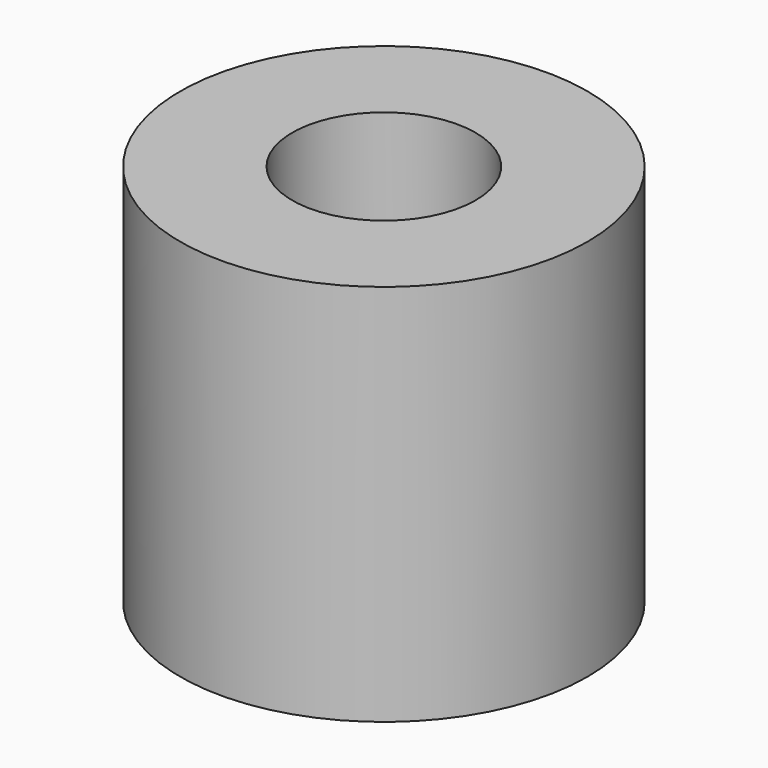
from build123d import *

# Parameters (mm, degrees)
SKETCH_R     = 5
PAD_DEPTH    = 9.4
SKETCH001_R  = 2.25
POCKET_DEPTH = 9.401


with BuildPart() as part:
    # Sketch → Pad (new body)
    with BuildSketch(Plane.XY):
        Circle(SKETCH_R)
    extrude(amount=PAD_DEPTH)

    # Sketch001 → Pocket (cut, through all)
    with BuildSketch(Plane.XY.offset(9.4)):
        Circle(SKETCH001_R)
    extrude(amount=-POCKET_DEPTH, mode=Mode.SUBTRACT)


solid = part.part
